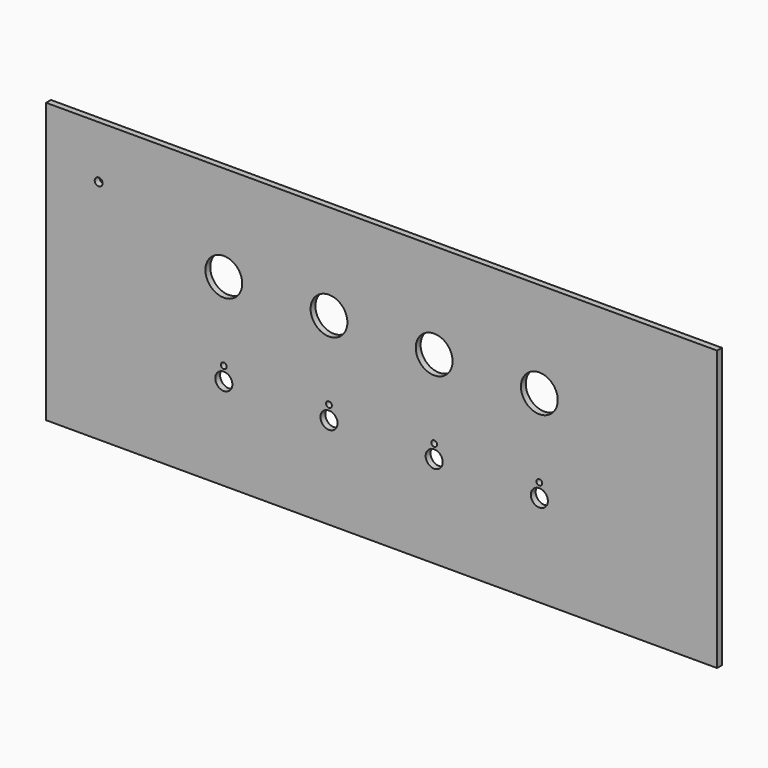
from build123d import *

# Parameters (mm, degrees)
F0_W     = 255.2
F0_H     = 106.3
F0_R     = 3.25
F0_R_2   = 1.1
F0_R_3   = 7
F0_R_4   = 1.5
F1_DEPTH = 2.3


with BuildPart() as f1:
    # F0 (on Front) → F1 (new body)
    with BuildSketch(Plane.XZ):
        Rectangle(F0_W, F0_H)
        with Locations((-60, -18.15)):
            Circle(F0_R, mode=Mode.SUBTRACT)
        with Locations((-20, -18.15)):
            Circle(F0_R, mode=Mode.SUBTRACT)
        with Locations((-60, -12.95)):
            Circle(F0_R_2, mode=Mode.SUBTRACT)
        with Locations((-20, -12.95)):
            Circle(F0_R_2, mode=Mode.SUBTRACT)
        with Locations((20, -18.15)):
            Circle(F0_R, mode=Mode.SUBTRACT)
        with Locations((60, -18.15)):
            Circle(F0_R, mode=Mode.SUBTRACT)
        with Locations((20, -12.95)):
            Circle(F0_R_2, mode=Mode.SUBTRACT)
        with Locations((60, -12.95)):
            Circle(F0_R_2, mode=Mode.SUBTRACT)
        with Locations((-60, 16.85)):
            Circle(F0_R_3, mode=Mode.SUBTRACT)
        with Locations((-20, 16.85)):
            Circle(F0_R_3, mode=Mode.SUBTRACT)
        with Locations((-107.6, 33.15)):
            Circle(F0_R_4, mode=Mode.SUBTRACT)
        with Locations((20, 16.85)):
            Circle(F0_R_3, mode=Mode.SUBTRACT)
        with Locations((60, 16.85)):
            Circle(F0_R_3, mode=Mode.SUBTRACT)
    extrude(amount=-F1_DEPTH)


solid = f1.part
